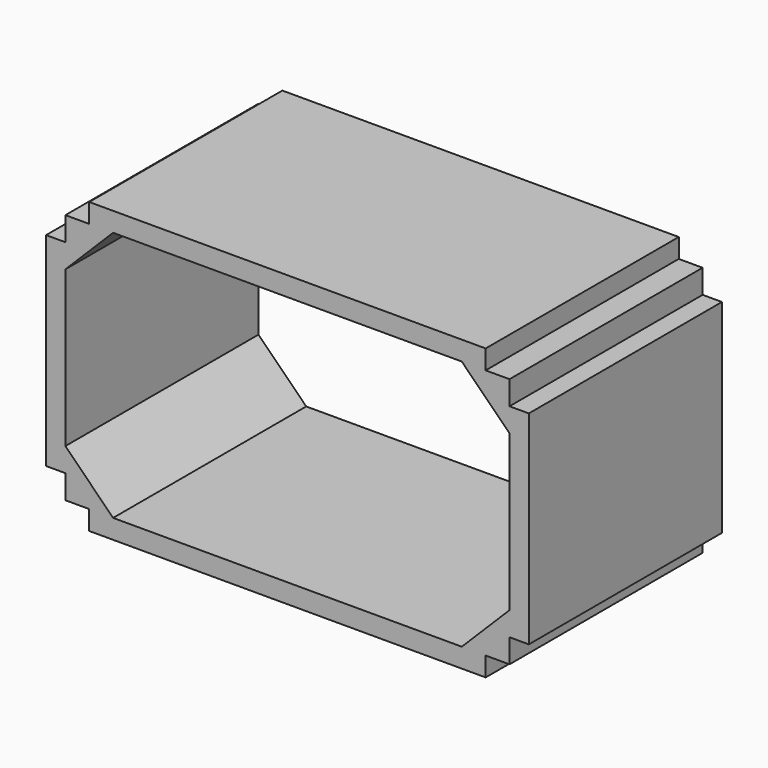
from build123d import *

# Parameters (mm, degrees)
F1_DEPTH = 25


with BuildPart() as f1:
    # F0 (on Front) → F1 (new body)
    with BuildSketch(Plane.XZ):
        Polygon((4.470868, 2), (4.470868, 0), (45.529132, 0), (45.529132, 2), (43.058265, 2), (6.941735, 2), align=None)
        Polygon((2, 2), (4.470868, 2), (6.941735, 2), (2, 6.941735), (2, 4.470868), align=None)
        Polygon((43.058265, 2), (45.529132, 2), (48, 2), (48, 4.470868), (48, 6.941735), align=None)
        Polygon((0, 4.470868), (2, 4.470868), (2, 6.941735), (2, 23.058265), (2, 25.529132), (0, 25.529132), align=None)
        Polygon((48, 6.941735), (48, 4.470868), (50, 4.470868), (50, 25.529132), (48, 25.529132), (48, 23.058265), align=None)
        Polygon((2, 25.529132), (2, 23.058265), (6.941735, 28), (4.470868, 28), (2, 28), align=None)
        Polygon((43.058265, 28), (48, 23.058265), (48, 25.529132), (48, 28), (45.529132, 28), align=None)
        Polygon((4.470868, 28), (6.941735, 28), (43.058265, 28), (45.529132, 28), (45.529132, 30), (4.470868, 30), align=None)
    extrude(amount=F1_DEPTH)


solid = f1.part
